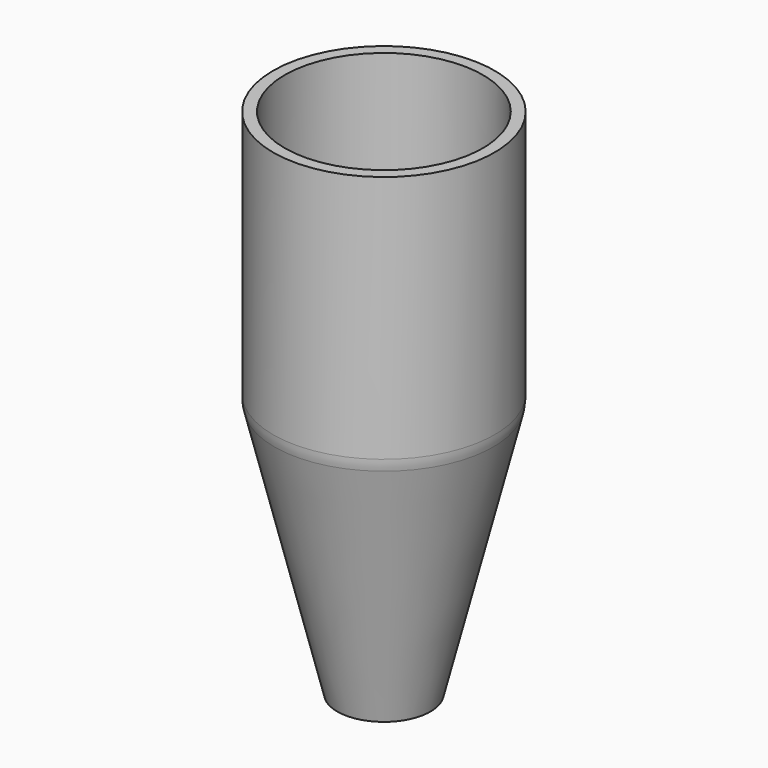
from build123d import *


with BuildPart() as f1:
    # F0 (on Front) → F1 (revolve)
    with BuildSketch(Plane.XZ):
        with BuildLine():
            Line((-15.08125, 69.85), (-15.08125, 36.017386))
            ThreePointArc((-15.08125, 36.017386), (-15.034492, 35.248206), (-14.894907, 34.490354))
            Line((-14.894907, 34.490354), (-6.35, 0))
            Line((-6.35, 0), (-4.714506, 0))
            Line((-4.714506, 0), (-13.307407, 34.684075))
            ThreePointArc((-13.307407, 34.684075), (-13.446992, 35.441927), (-13.49375, 36.211107))
            Line((-13.49375, 36.211107), (-13.49375, 69.85))
            Line((-13.49375, 69.85), (-15.08125, 69.85))
        make_face()
    revolve(axis=Axis((0, 0, 17.038351), (0, 0, -1)))


solid = f1.part
